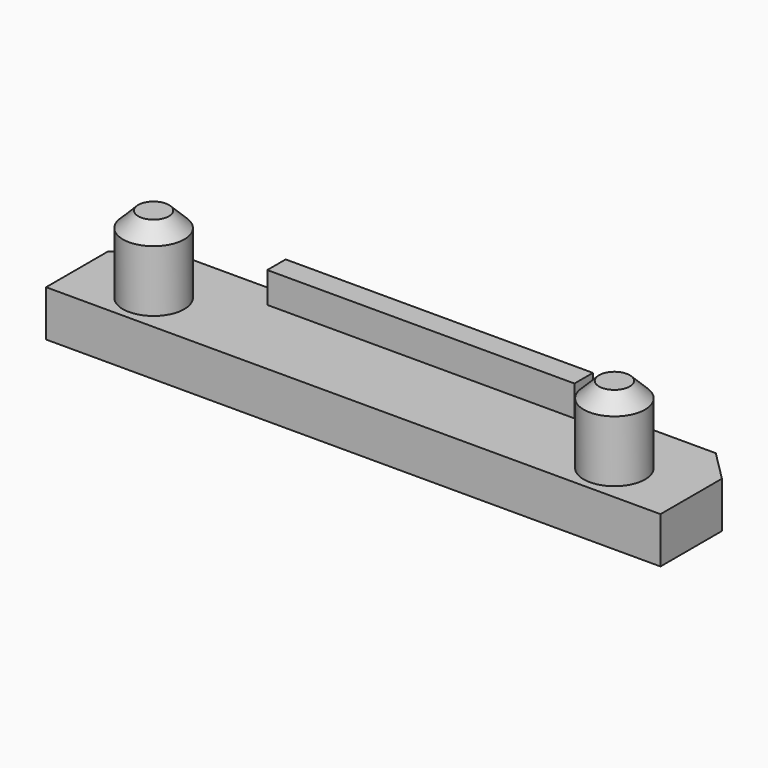
from build123d import *

# Parameters (mm, degrees)
SKETCH_W        = 40
SKETCH_H        = 5
PAD_DEPTH       = 3
SKETCH001_R     = 2
PAD001_DEPTH    = 5
CHAMFER_SIZE    = 1
CHAMFER_FACE8_W = 40
CHAMFER_FACE8_H = 3
PAD002_DEPTH    = 2
CHAMFER001_SIZE = 2
SKETCH002_W     = 20
SKETCH002_H     = 1.5
PAD003_DEPTH    = 2


with BuildPart() as part:
    # Sketch → Pad (new body)
    with BuildSketch(Plane.XY):
        with Locations((20, 2.5)):
            Rectangle(SKETCH_W, SKETCH_H)
    extrude(amount=PAD_DEPTH)

    # Sketch001 (on Face6 of Pad) → Pad001 (join)
    with BuildSketch(Plane.XY.offset(3)):
        with Locations((5, 2.5)):
            Circle(SKETCH001_R)
        with Locations((35, 2.5)):
            Circle(SKETCH001_R)
    extrude(amount=PAD001_DEPTH)

    # Chamfer
    chamfer_edges = [part.edges().sort_by_distance(p)[0] for p in [
        (3, 2.5, 8),
        (33, 2.5, 8),
    ]]
    chamfer(chamfer_edges, length=CHAMFER_SIZE)

    # Chamfer Face8 → Pad002 (add)
    with BuildSketch(Plane(origin=(20, 5, 1.5), x_dir=(1, 0, 0), z_dir=(0, 1, 0))):
        Rectangle(CHAMFER_FACE8_W, CHAMFER_FACE8_H)
    extrude(amount=PAD002_DEPTH)

    # Chamfer001
    chamfer001_edges = [part.edges().sort_by_distance(p)[0] for p in [
        (0, 7, 1.5),
        (40, 7, 1.5),
    ]]
    chamfer(chamfer001_edges, length=CHAMFER001_SIZE)

    # Sketch002 (on Face1 of Chamfer001) → Pad003 (join)
    with BuildSketch(Plane.XY.offset(3)):
        with Locations((20, 6.25)):
            Rectangle(SKETCH002_W, SKETCH002_H)
    extrude(amount=PAD003_DEPTH)


solid = part.part
